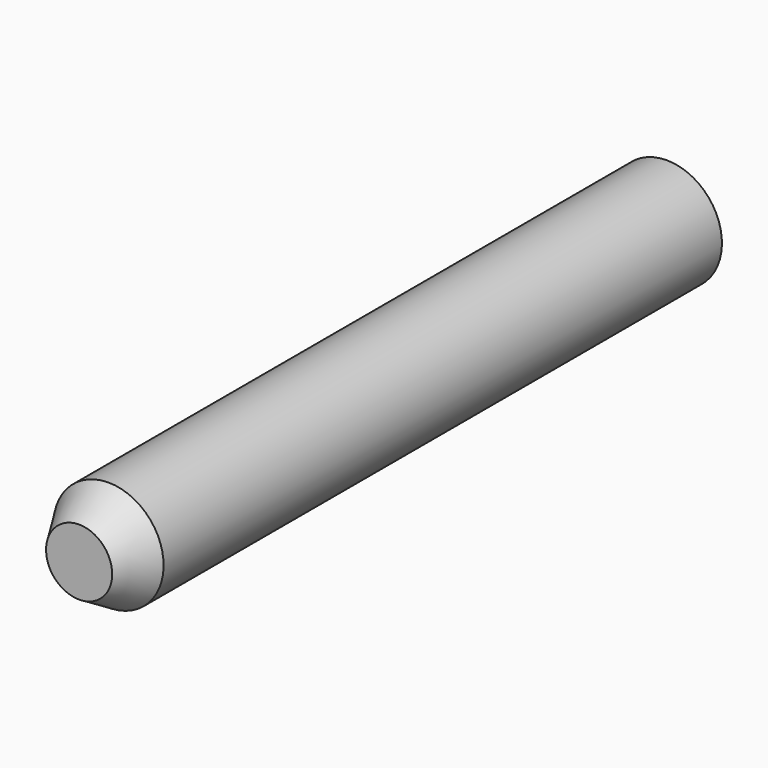
from build123d import *


with BuildPart() as f1:
    # F0 (on Right) → F1 (revolve)
    with BuildSketch(Plane.YZ):
        Polygon((-1270, 57.15), (-1270, 0), (0, 0), (0, 95.25), (-1206.5, 95.25), align=None)
    revolve(axis=Axis((0, -635, 0), (0, -1, 0)))


solid = f1.part
